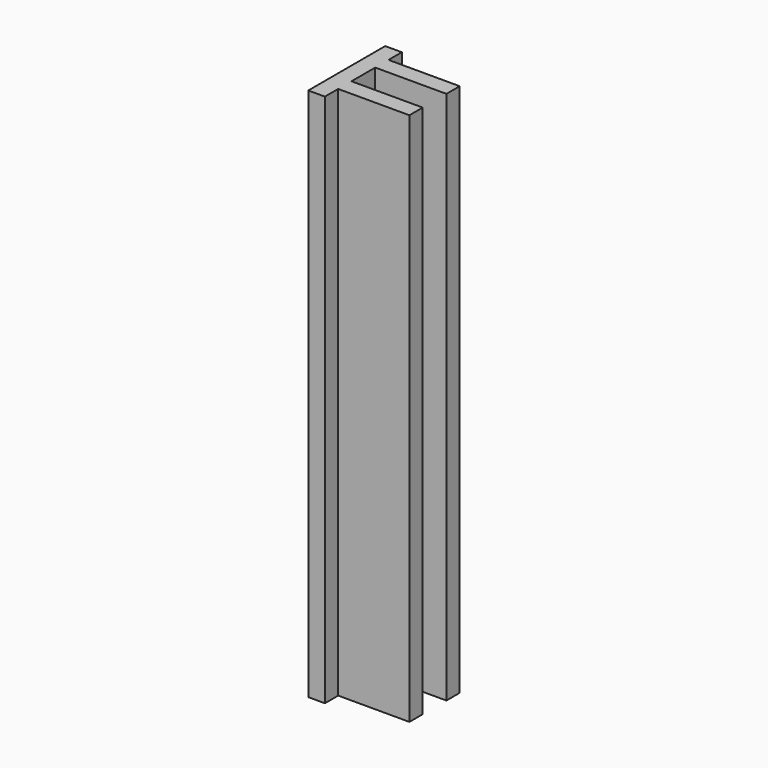
from build123d import *

# Parameters (mm, degrees)
F0_W     = 3.556
F0_H     = 3.556
F0_W_2   = 15.24
F1_DEPTH = 114.3


with BuildPart() as f1:
    # F0 (on Top) → F1 (new body)
    with BuildSketch(Plane.XY):
        Polygon((-7.62, -3.175), (-7.62, 3.175), (-7.62, 6.731), (-11.176, 6.731), (-11.176, -6.731), (-7.62, -6.731), align=None)
        with Locations((-9.398, 8.509)):
            Rectangle(F0_W, F0_H)
        with Locations((-9.398, -8.509)):
            Rectangle(F0_W, F0_H)
        with Locations((0, -4.953)):
            Rectangle(F0_W_2, F0_H)
        with Locations((0, 4.953)):
            Rectangle(F0_W_2, F0_H)
    extrude(amount=F1_DEPTH)


solid = f1.part
